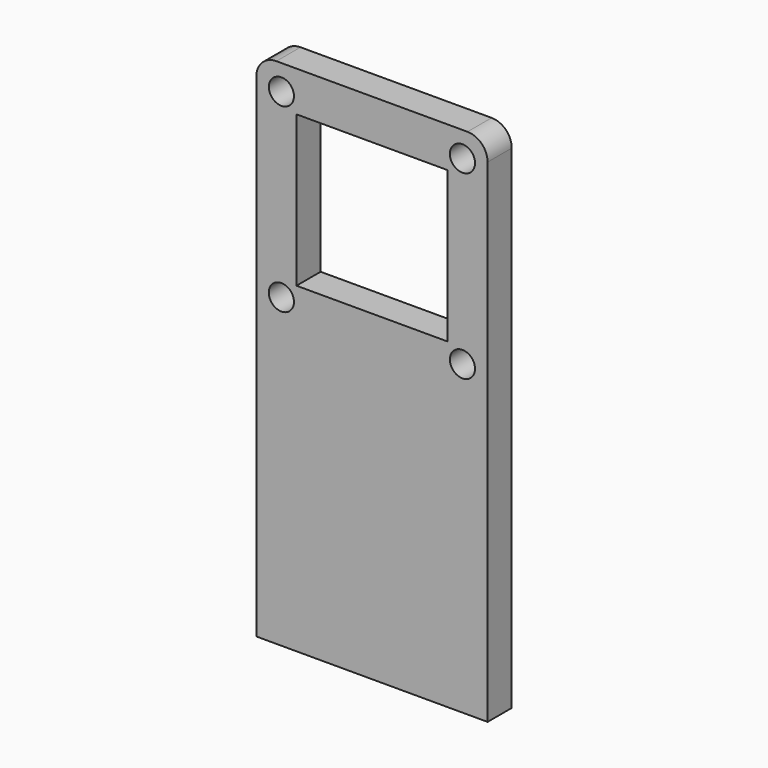
from build123d import *

# Parameters (mm, degrees)
F0_R     = 2.5
F0_W     = 30
F0_H     = 30
F1_DEPTH = 6


with BuildPart() as f1:
    # F0 (on Front) → F1 (new body)
    with BuildSketch(Plane.XZ):
        with BuildLine():
            ThreePointArc((23, 47), (21.828427, 49.828427), (19, 51))
            Line((19, 51), (-19, 51))
            ThreePointArc((-19, 51), (-21.828427, 49.828427), (-23, 47))
            Line((-23, 47), (-23, -51))
            Line((-23, -51), (23, -51))
            Line((23, -51), (23, 47))
        make_face()
        with Locations((-18, 10)):
            Circle(F0_R, mode=Mode.SUBTRACT)
        with Locations((-18, 46)):
            Circle(F0_R, mode=Mode.SUBTRACT)
        with Locations((18, 10)):
            Circle(F0_R, mode=Mode.SUBTRACT)
        with Locations((0, 28)):
            Rectangle(F0_W, F0_H, mode=Mode.SUBTRACT)
        with Locations((18, 46)):
            Circle(F0_R, mode=Mode.SUBTRACT)
    extrude(amount=F1_DEPTH)


solid = f1.part
